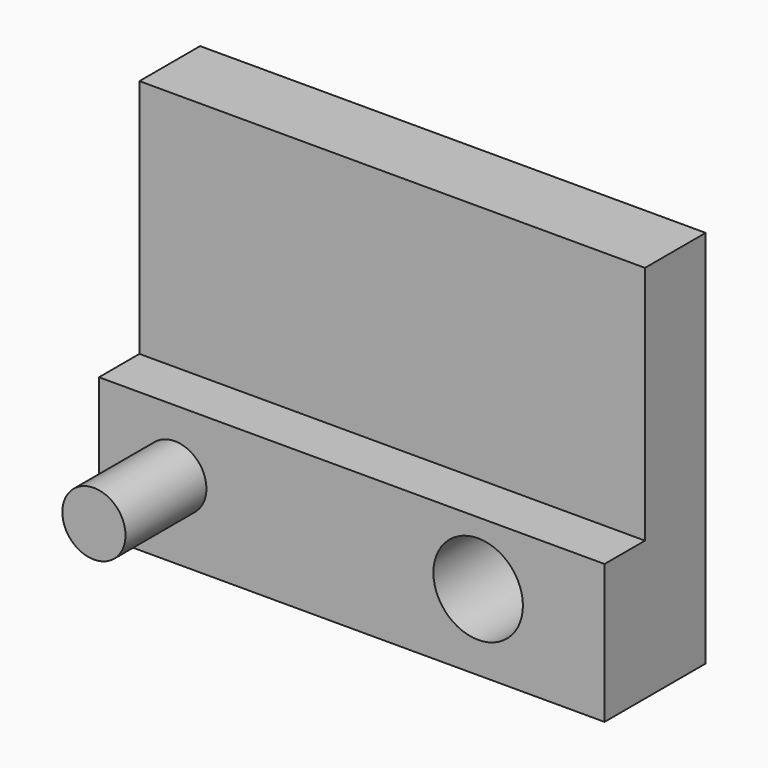
from build123d import *

# Parameters (mm, degrees)
F0_W     = 25.4
F0_H     = 19.05
F1_DEPTH = 6.35
F3_D     = 4.4958
F4_DEPTH = 5.08
F6_DEPTH = 2.54


with BuildPart() as f1:
    # F0 (on Front) → F1 (new body)
    with BuildSketch(Plane.XZ):
        with Locations((12.7, 9.525)):
            Rectangle(F0_W, F0_H)
    extrude(amount=F1_DEPTH)

    # F3 (through all)
    with Locations(Plane.XZ.offset(6.35)):
        with Locations((19.05, 3.81)):
            Hole(F3_D / 2)

    # F2 (on face) → F4 (join)
    with BuildSketch(Plane.XZ.offset(6.35)):
        with BuildLine():
            ThreePointArc((5.3975, 3.81), (3.81, 5.3975), (2.2225, 3.81))
            ThreePointArc((2.2225, 3.81), (3.81, 2.2225), (5.3975, 3.81))
        make_face()
    extrude(amount=F4_DEPTH)

    # F5 (on face) → F6 (cut)
    with BuildSketch(Plane.XZ.offset(6.35)):
        with BuildLine():
            ThreePointArc((5.3975, 3.81), (3.81, 5.3975), (2.2225, 3.81))
            ThreePointArc((2.2225, 3.81), (3.81, 2.2225), (5.3975, 3.81))
        make_face()
        with BuildLine():
            ThreePointArc((21.2979, 3.81), (20.6395053334, 5.3995053334), (19.05, 6.0579))
            Line((19.05, 6.0579), (19.05, 3.81))
            Line((19.05, 3.81), (21.2979, 3.81))
        make_face()
        with BuildLine():
            Line((19.05, 3.81), (19.05, 6.0579))
            ThreePointArc((19.05, 6.0579), (17.4604946666, 2.2204946666), (21.2979, 3.81))
            Line((21.2979, 3.81), (19.05, 3.81))
        make_face()
        Polygon((0, 19.05), (0, 6.985), (19.05, 6.985), (38.1259955466, 6.985), (25.4, 19.05), align=None)
    extrude(amount=-F6_DEPTH, mode=Mode.SUBTRACT)


solid = f1.part
